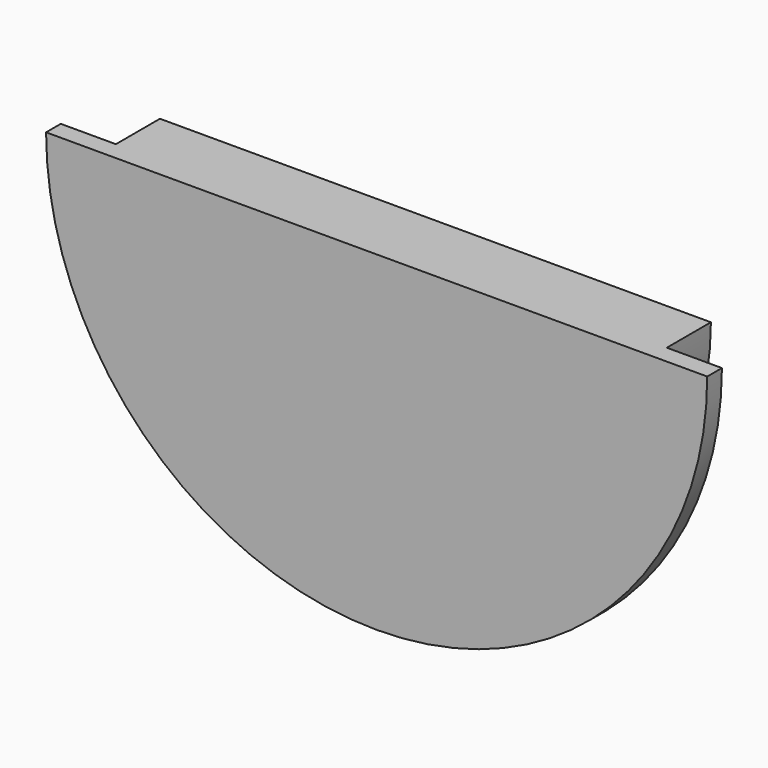
from build123d import *

# Parameters (mm, degrees)
F1_DEPTH = 3
F3_DEPTH = 1


with BuildPart() as f1:
    # F0 (on Front) → F1 (new body)
    with BuildSketch(Plane.XZ):
        with BuildLine():
            Line((15, 0), (-15, 0))
            ThreePointArc((-15, 0), (0, -15), (15, 0))
        make_face()
    extrude(amount=-F1_DEPTH)

    # F2 (on face) → F3 (join)
    with BuildSketch(Plane.XZ):
        with BuildLine():
            ThreePointArc((-18, 0), (0, -18), (18, 0))
            Line((18, 0), (15, 0))
            ThreePointArc((15, 0), (0, -15), (-15, 0))
            Line((-15, 0), (-18, 0))
        make_face()
        with BuildLine():
            ThreePointArc((-15, 0), (0, -15), (15, 0))
            Line((15, 0), (-15, 0))
        make_face()
    extrude(amount=F3_DEPTH)


solid = f1.part
